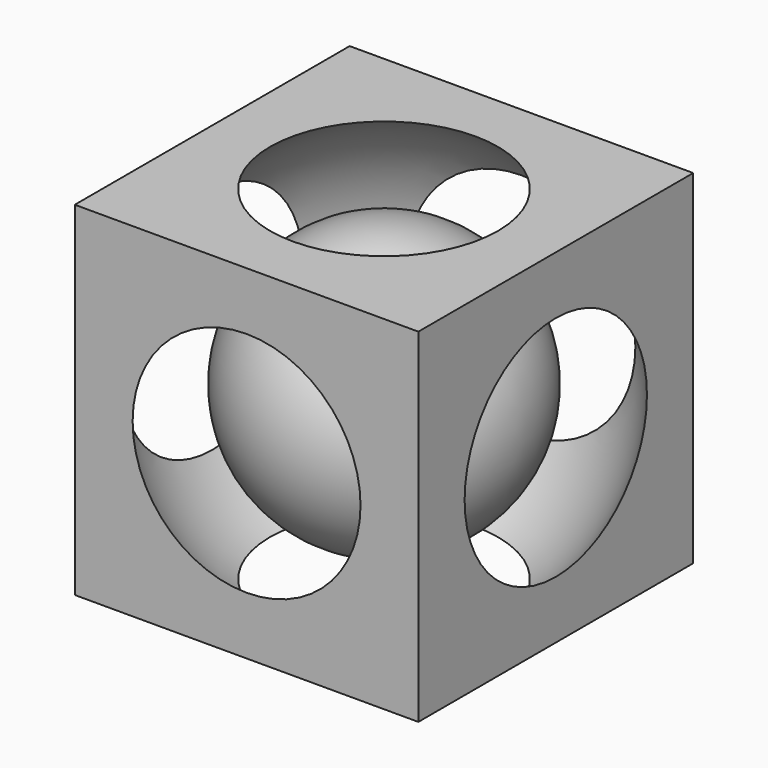
from build123d import *

# Parameters (mm, degrees)
BOX_W     = 30
BOX_H     = 30
BOX_DEPTH = 30


with BuildPart() as sphere:
    # Sphere → Sphere (revolve)
    with BuildSketch(Plane(origin=(15, 15, 15), x_dir=(1, 0, 0), z_dir=(0, -1, 0))):
        with BuildLine():
            ThreePointArc((0, -18), (18, 0), (0, 18))
            Line((0, 18), (0, -18))
        make_face()
    revolve(axis=Axis((15, 15, 15), (0, 0, 1)))


with BuildPart() as cut:
    # Box → Box (new body)
    with BuildSketch(Plane.XY):
        with Locations((15, 15)):
            Rectangle(BOX_W, BOX_H)
    extrude(amount=BOX_DEPTH)

    # Cut: cut Sphere
    add(sphere.part, mode=Mode.SUBTRACT)


with BuildPart() as sphere001:
    # Sphere001 → Sphere001 (revolve)
    with BuildSketch(Plane(origin=(15, 15, 15), x_dir=(1, 0, 0), z_dir=(0, -1, 0))):
        with BuildLine():
            ThreePointArc((0, -12), (12, 0), (0, 12))
            Line((0, 12), (0, -12))
        make_face()
    revolve(axis=Axis((15, 15, 15), (0, 0, 1)))


solid = Compound([cut.part, sphere001.part])
